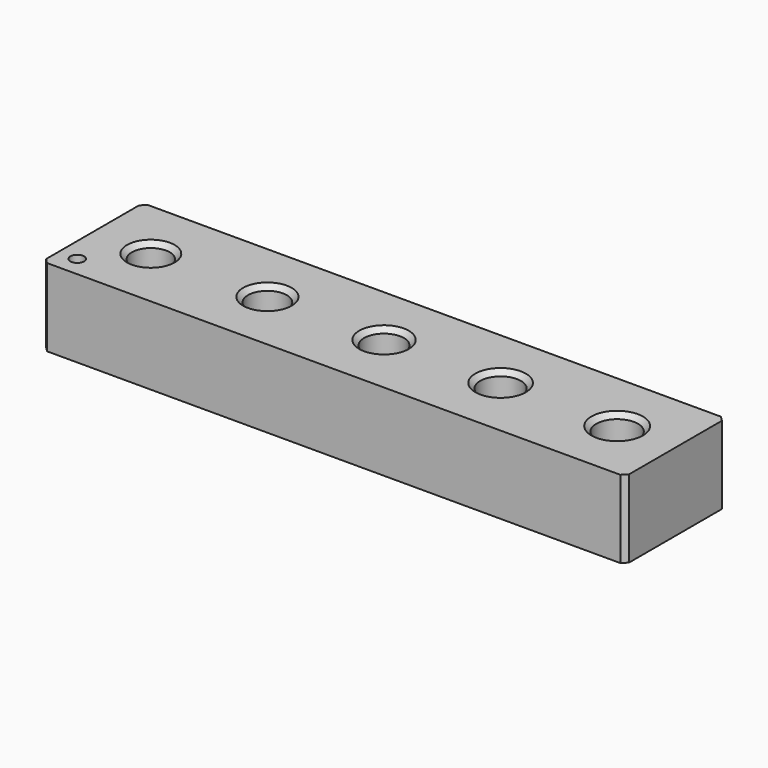
from build123d import *

# Parameters (mm, degrees)
F0_W     = 60
F0_H     = 12.951542
F0_R     = 0.709255
F0_R_2   = 1.95
F0_R_3   = 2
F0_R_4   = 2.05
F0_R_5   = 2.1
F0_R_6   = 2.15
F1_DEPTH = 8
F2_DEPTH = 5
F3_SIZE  = 0.5


with BuildPart() as f1:
    # F0 (on Top) → F1 (new body)
    with BuildSketch(Plane.XY):
        Rectangle(F0_W, F0_H)
        with Locations((-28.05865, -4.393477)):
            Circle(F0_R, mode=Mode.SUBTRACT)
        with Locations((-24, 0)):
            Circle(F0_R_2, mode=Mode.SUBTRACT)
        with Locations((-12, 0)):
            Circle(F0_R_3, mode=Mode.SUBTRACT)
        Circle(F0_R_4, mode=Mode.SUBTRACT)
        with Locations((12, 0)):
            Circle(F0_R_5, mode=Mode.SUBTRACT)
        with Locations((24, 0)):
            Circle(F0_R_6, mode=Mode.SUBTRACT)
    extrude(amount=F1_DEPTH)

    # F0 (on Top) → F2 (join)
    with BuildSketch(Plane.XY):
        with Locations((-28.05865, -4.393477)):
            Circle(F0_R)
    extrude(amount=F2_DEPTH)

    # F3
    f3_edges = [f1.edges().sort_by_distance(p)[0] for p in [
        (-25.95, 0, 8),
        (-14, 0, 8),
        (-2.05, 0, 8),
        (9.9, 0, 8),
        (21.85, 0, 8),
        (21.85, 0, 0),
        (9.9, 0, 0),
        (-2.05, 0, 0),
        (-14, 0, 0),
        (-25.95, 0, 0),
        (-30, -6.475771, 4),
        (-30, 6.475771, 4),
        (30, 6.475771, 4),
        (30, -6.475771, 4),
    ]]
    chamfer(f3_edges, length=F3_SIZE)


solid = f1.part
